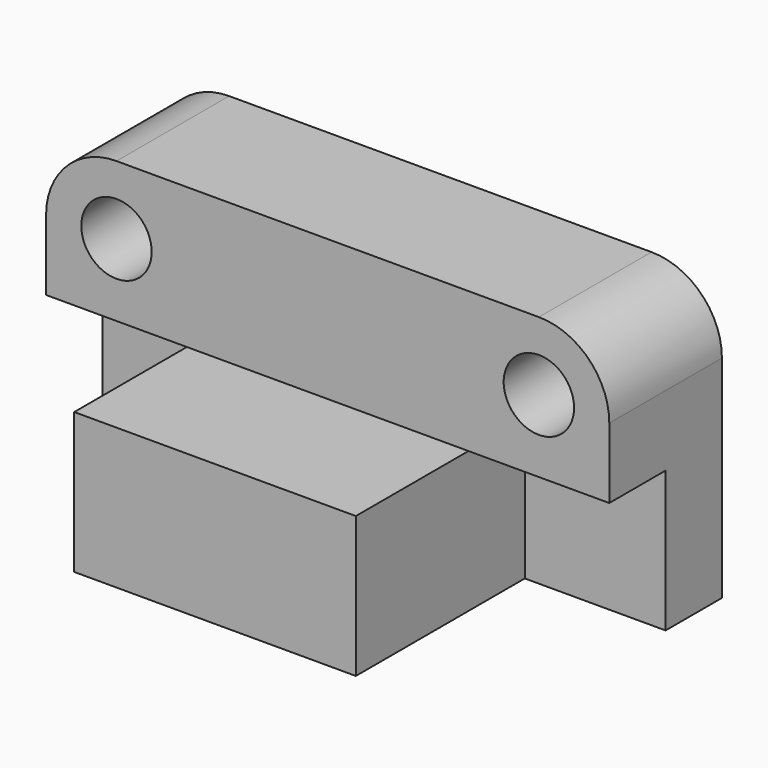
from build123d import *

# Parameters (mm, degrees)
F0_W     = 203.2
F0_H     = 101.6
F1_DEPTH = 101.6
F2_W     = 203.2
F2_H     = 50.8
F3_DEPTH = 50.8
F4_W     = 50.8
F4_H     = 50.8
F5_DEPTH = 76.2
F6_W     = 50.8
F6_H     = 50.8
F7_DEPTH = 76.2
F8_R     = 12.7
F9_DEPTH = 50.8
F10_R    = 25.4


with BuildPart() as f1:
    # F0 (on Top) → F1 (new body)
    with BuildSketch(Plane.XY):
        with Locations((-101.6, -50.8)):
            Rectangle(F0_W, F0_H)
    extrude(amount=F1_DEPTH)

    # F2 (on face) → F3 (cut)
    with BuildSketch(Plane.XY.offset(101.6)):
        with Locations((-101.6, -76.2)):
            Rectangle(F2_W, F2_H)
    extrude(amount=-F3_DEPTH, mode=Mode.SUBTRACT)

    # F4 (on face) → F5 (cut)
    with BuildSketch(Plane.XZ.offset(101.6)):
        with Locations((-177.8, 25.4)):
            Rectangle(F4_W, F4_H)
    extrude(amount=-F5_DEPTH, mode=Mode.SUBTRACT)

    # F6 (on face) → F7 (cut)
    with BuildSketch(Plane.XZ.offset(101.6)):
        with Locations((-25.4, 25.4)):
            Rectangle(F6_W, F6_H)
    extrude(amount=-F7_DEPTH, mode=Mode.SUBTRACT)

    # F8 (on face) → F9 (cut)
    with BuildSketch(Plane.XZ.offset(50.8)):
        with Locations((-177.8, 76.8854767084)):
            Circle(F8_R)
        with Locations((-25.4, 76.8854767084)):
            Circle(F8_R)
    extrude(amount=-F9_DEPTH, mode=Mode.SUBTRACT)

    # F10
    f10_edges = [f1.edges().sort_by_distance(p)[0] for p in [
        (-203.2, -25.4, 101.6),
        (0, -25.4, 101.6),
    ]]
    fillet(f10_edges, radius=F10_R)


solid = f1.part
